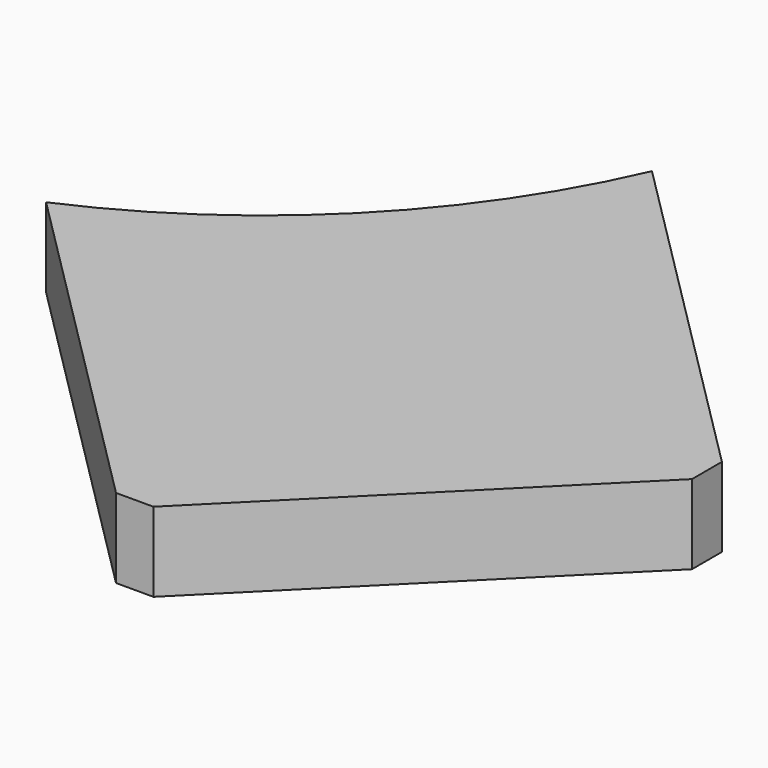
from build123d import *

# Parameters (mm, degrees)
CYLINDER1708_R              = 74
CYLINDER1708_DEPTH          = 40
BOX671_W                    = 42
BOX671_H                    = 62
BOX671_DEPTH                = 50
COMPOUND846_PLACEMENT_ANGLE = 225
BOX672_W                    = 54
BOX672_H                    = 68
BOX672_DEPTH                = 9
COMPOUND847_PLACEMENT_ANGLE = 225
CHAMFER053_SIZE             = 3


with BuildPart() as obj1:
    # Cylinder1708 → Cylinder1708 (new body)
    with BuildSketch(Plane.XY.offset(44)):
        Circle(CYLINDER1708_R)
    extrude(amount=CYLINDER1708_DEPTH)


with BuildPart() as compound846:
    # Box671 → Box671 (new body)
    with BuildSketch(Plane(origin=(-21.001071, 60.005081, 31), x_dir=(1, 0, 0), z_dir=(0, 0, 1))):
        with Locations((21, 31)):
            Rectangle(BOX671_W, BOX671_H)
    extrude(amount=BOX671_DEPTH)


with BuildPart() as compound846_1:
    # Compound846 placement: moved
    add(compound846.part.moved(Location((0, 0, 1))).rotate(Axis((0, 0, 1), (0, 0, 1)), COMPOUND846_PLACEMENT_ANGLE))


with BuildPart() as chamfer053:
    # Box672 → Box672 (new body)
    with BuildSketch(Plane(origin=(-27.004408, 59.99801, 75), x_dir=(1, 0, 0), z_dir=(0, 0, 1))):
        with Locations((27, 34)):
            Rectangle(BOX672_W, BOX672_H)
    extrude(amount=BOX672_DEPTH)


with BuildPart() as chamfer053_1:
    # Compound847 placement: moved
    add(chamfer053.part.rotate(Axis((0, 0, 0), (0, 0, 1)), COMPOUND847_PLACEMENT_ANGLE))

    # Cut489: cut Compound846
    add(compound846_1.part, mode=Mode.SUBTRACT)

    # Cut490: cut obj1
    add(obj1.part, mode=Mode.SUBTRACT)

    # Chamfer053
    chamfer053_edges = [chamfer053_1.edges().sort_by_distance(p)[0] for p in [
        (109.603261, -71.413261, 79.5),
        (71.419495, -109.597027, 79.5),
    ]]
    chamfer(chamfer053_edges, length=CHAMFER053_SIZE)


solid = chamfer053_1.part
